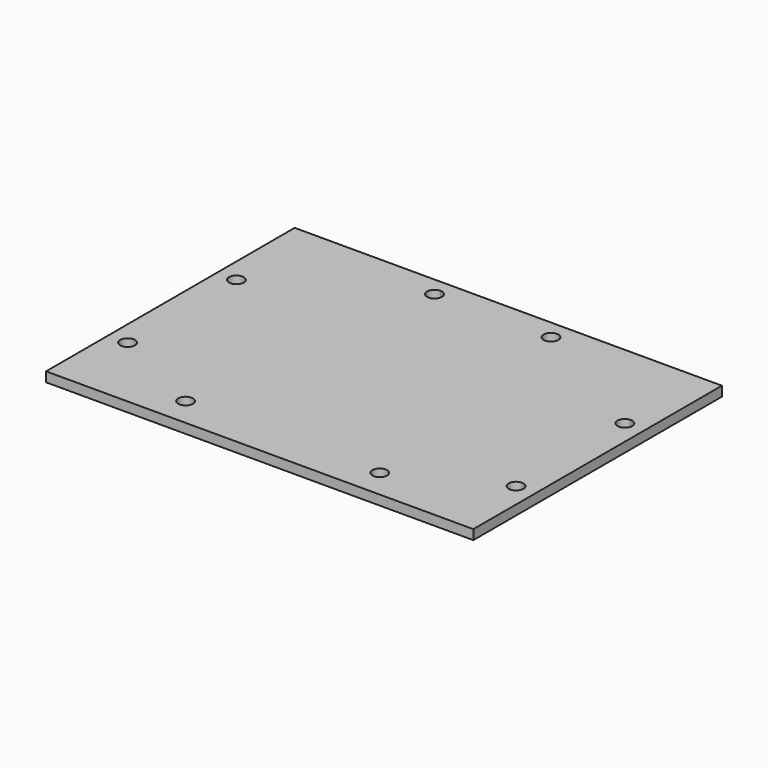
from build123d import *

# Parameters (mm, degrees)
F0_W     = 139.7
F0_H     = 101.6
F1_DEPTH = 1.5875
F2_R     = 2.413
F3_DEPTH = 25.4


with BuildPart() as f1:
    # F0 (on Top) → F1 (new body, symmetric)
    with BuildSketch(Plane.XY):
        Rectangle(F0_W, F0_H)
    extrude(amount=F1_DEPTH, both=True)

    # F2 (on face) → F3 (cut)
    with BuildSketch(Plane.XY.offset(1.5875)):
        with BuildLine():
            Line((63.5, -25.4), (65.913, -25.4))
            ThreePointArc((65.913, -25.4), (63.5, -22.987), (61.087, -25.4))
            Line((61.087, -25.4), (63.5, -25.4))
        make_face()
        with BuildLine():
            ThreePointArc((-65.913, -25.4), (-63.5, -27.813), (-61.087, -25.4))
            Line((-61.087, -25.4), (-65.913, -25.4))
        make_face()
        with BuildLine():
            Line((-65.913, -25.4), (-61.087, -25.4))
            ThreePointArc((-61.087, -25.4), (-63.5, -22.987), (-65.913, -25.4))
        make_face()
        with BuildLine():
            ThreePointArc((61.087, -25.4), (63.5, -27.813), (65.913, -25.4))
            Line((65.913, -25.4), (63.5, -25.4))
            Line((63.5, -25.4), (61.087, -25.4))
        make_face()
        with BuildLine():
            ThreePointArc((63.5, 21.463), (61.793751337, 17.343751337), (65.913, 19.05))
            ThreePointArc((65.913, 19.05), (65.206248663, 20.756248663), (63.5, 21.463))
        make_face()
        with Locations((19.05, 44.45)):
            Circle(F2_R)
        with BuildLine():
            ThreePointArc((-19.05, 46.863), (-20.756248663, 42.743751337), (-16.637, 44.45))
            ThreePointArc((-16.637, 44.45), (-17.343751337, 46.156248663), (-19.05, 46.863))
        make_face()
        with Locations((-63.5, 19.05)):
            Circle(F2_R)
        with Locations((-31.75, -41.402)):
            Circle(F2_R)
        with Locations((31.75, -41.402)):
            Circle(F2_R)
    extrude(amount=-F3_DEPTH, mode=Mode.SUBTRACT)


solid = f1.part
